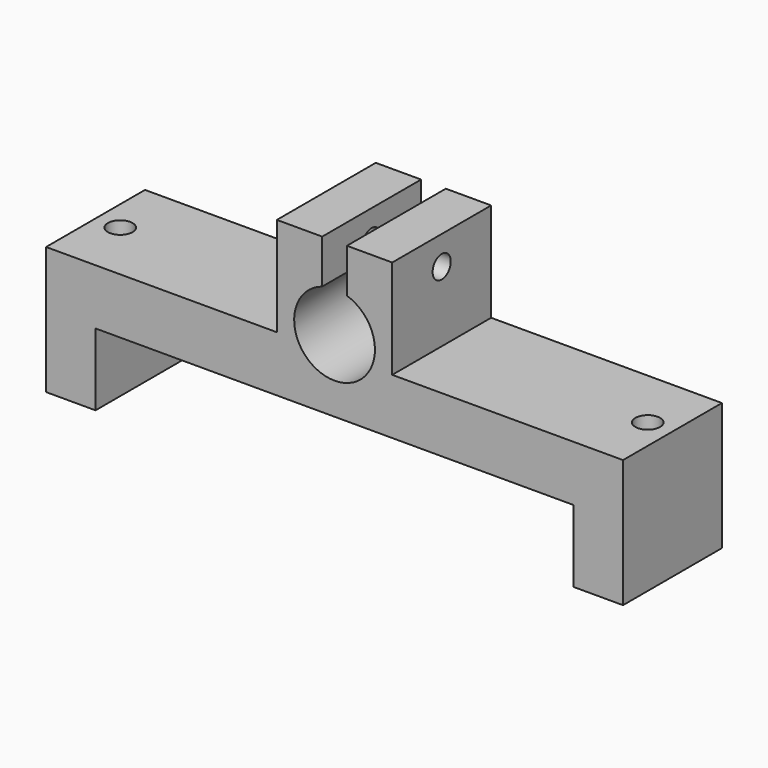
from build123d import *

# Parameters (mm, degrees)
F0_W      = 140
F0_H      = 30
F1_DEPTH  = 55
F2_W      = 116
F2_H      = 30
F3_DEPTH  = 17.5
F5_D      = 19.6
F7_D      = 6
F9_D      = 6
F10_W     = 56
F10_H     = 30
F10_R     = 3
F11_DEPTH = 24
F12_W     = 56
F12_H     = 30
F12_R     = 3
F13_DEPTH = 24
F15_D     = 5.5
F16_W     = 6
F16_H     = 30.458071
F17_DEPTH = 25


with BuildPart() as f1:
    # F0 (on Top) → F1 (new body)
    with BuildSketch(Plane.XY):
        Rectangle(F0_W, F0_H)
    extrude(amount=F1_DEPTH)

    # F2 (on face) → F3 (cut)
    with BuildSketch(Plane(origin=(0, 0, 0), x_dir=(1, 0, 0), z_dir=(0, 0, -1))):
        Rectangle(F2_W, F2_H)
    extrude(amount=-F3_DEPTH, mode=Mode.SUBTRACT)

    # F5 (through all)
    with Locations(Plane.XZ.offset(15)):
        with Locations((0, 35)):
            Hole(F5_D / 2)

    # F7 (through all)
    with Locations(Plane.XY.offset(55)):
        with Locations((-64, 0)):
            Hole(F7_D / 2)

    # F9 (through all)
    with Locations(Plane.XY.offset(55)):
        with Locations((64, 0)):
            Hole(F9_D / 2)

    # F10 (on face) → F11 (cut)
    with BuildSketch(Plane.XY.offset(55)):
        with Locations((-42, 0)):
            Rectangle(F10_W, F10_H)
        with Locations((-64, 0)):
            Circle(F10_R, mode=Mode.SUBTRACT)
    extrude(amount=-F11_DEPTH, mode=Mode.SUBTRACT)

    # F12 (on face) → F13 (cut)
    with BuildSketch(Plane.XY.offset(55)):
        with Locations((42, 0)):
            Rectangle(F12_W, F12_H)
        with Locations((64, 0)):
            Circle(F12_R, mode=Mode.SUBTRACT)
    extrude(amount=-F13_DEPTH, mode=Mode.SUBTRACT)

    # F15 (through all)
    with Locations(Plane.YZ.offset(14)):
        with Locations((0, 48)):
            Hole(F15_D / 2)

    # F16 (on face) → F17 (cut)
    with BuildSketch(Plane.XY.offset(55)):
        with Locations((0, 0.21546)):
            Rectangle(F16_W, F16_H)
    extrude(amount=-F17_DEPTH, mode=Mode.SUBTRACT)


solid = f1.part
